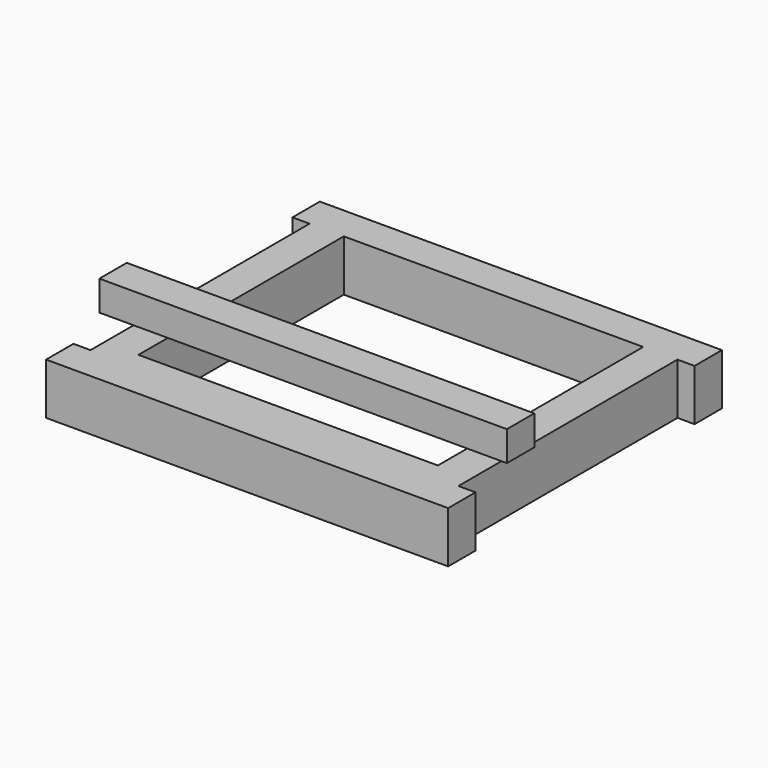
from build123d import *

# Parameters (mm, degrees)
F0_W     = 350
F0_H     = 300
F1_DEPTH = 60
F2_W     = 40
F2_H     = 40
F2_W_2   = 350
F2_W_3   = 6.35
F3_DEPTH = 35


with BuildPart() as f1:
    # F0 (on Top) → F1 (new body)
    with BuildSketch(Plane.XY):
        Polygon((253.7002617121, 146.9119131565), (-216.2997382879, 146.9119131565), (-216.2997382879, 106.9119131565), (-196.2997382879, 106.9119131565), (-196.2997382879, -213.0880868435), (-216.2997382879, -213.0880868435), (-216.2997382879, -253.0880868435), (253.7002617121, -253.0880868435), (253.7002617121, -213.0880868435), (233.7002617121, -213.0880868435), (233.7002617121, 106.9119131565), (253.7002617121, 106.9119131565), align=None)
        with Locations((18.7002617121, -43.0880868435)):
            Rectangle(F0_W, F0_H, mode=Mode.SUBTRACT)
    extrude(amount=F1_DEPTH)

    # F2 (on face) → F3 (join)
    with BuildSketch(Plane.XY.offset(60)):
        with Locations((-216.2997382879, -130.2192318439)):
            Rectangle(F2_W, F2_H)
        with Locations((-176.2997382879, -130.2192318439)):
            Rectangle(F2_W, F2_H)
        with Locations((18.7002617121, -130.2192318439)):
            Rectangle(F2_W_2, F2_H)
        with Locations((213.7002617121, -130.2192318439)):
            Rectangle(F2_W, F2_H)
        with Locations((236.8752617121, -130.2192318439)):
            Rectangle(F2_W_3, F2_H)
    extrude(amount=F3_DEPTH)


solid = f1.part
